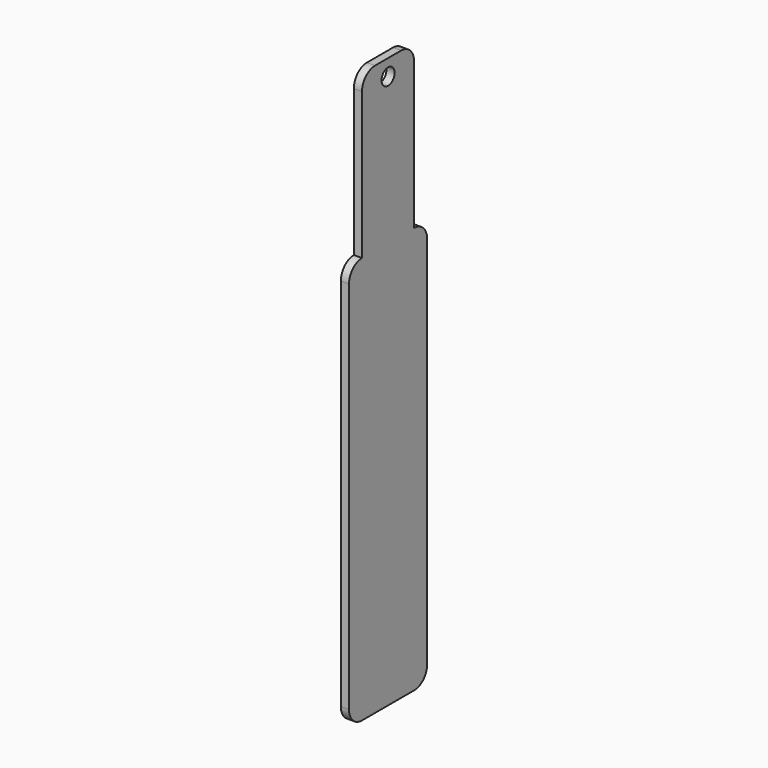
from build123d import *

# Parameters (mm, degrees)
F0_R     = 0.5
F1_DEPTH = 0.5


with BuildPart() as f1:
    # F0 (on Right) → F1 (new body)
    with BuildSketch(Plane.YZ):
        with BuildLine():
            ThreePointArc((-3, -2), (-2.707107, -2.707107), (-2, -3))
            Line((-2, -3), (2, -3))
            ThreePointArc((2, -3), (2.707107, -2.707107), (3, -2))
            Line((3, -2), (3, 21))
            ThreePointArc((3, 21), (2.707107, 21.707107), (2, 22))
            Line((2, 22), (2, 31))
            ThreePointArc((2, 31), (1.707107, 31.707107), (1, 32))
            Line((1, 32), (-1, 32))
            ThreePointArc((-1, 32), (-1.707107, 31.707107), (-2, 31))
            Line((-2, 31), (-2, 22))
            ThreePointArc((-2, 22), (-2.707107, 21.707107), (-3, 21))
            Line((-3, 21), (-3, -2))
        make_face()
        with Locations((0, 31)):
            Circle(F0_R, mode=Mode.SUBTRACT)
    extrude(amount=F1_DEPTH)


solid = f1.part
